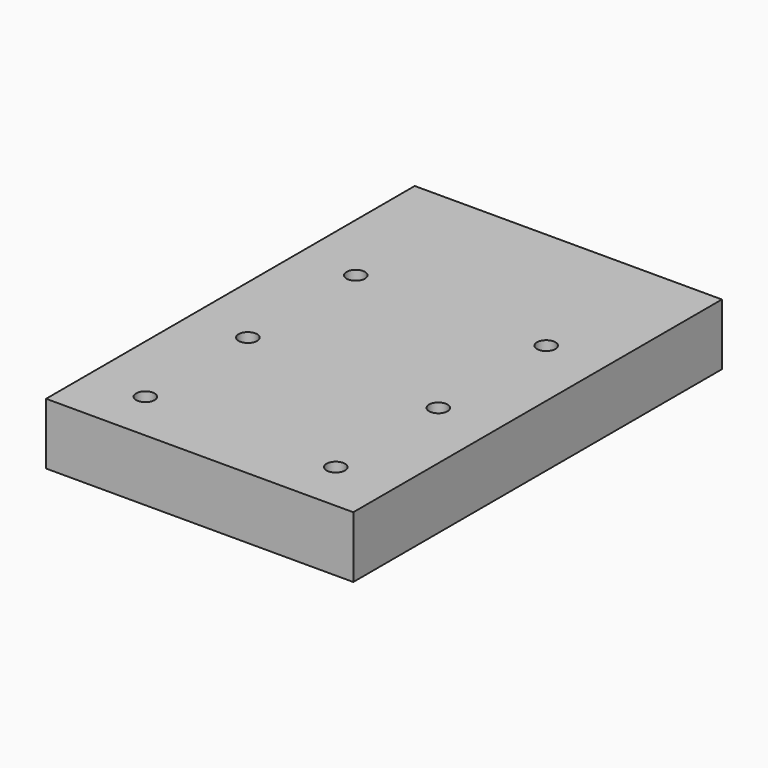
from build123d import *

# Parameters (mm, degrees)
F0_W     = 100
F0_H     = 150
F0_R     = 3
F1_DEPTH = 20


with BuildPart() as f1:
    # F0 (on Top) → F1 (new body)
    with BuildSketch(Plane.XY):
        Rectangle(F0_W, F0_H)
        with Locations((-31, -58.369067)):
            Circle(F0_R, mode=Mode.SUBTRACT)
        with Locations((-31, -16.64242)):
            Circle(F0_R, mode=Mode.SUBTRACT)
        with Locations((31, -58.369067)):
            Circle(F0_R, mode=Mode.SUBTRACT)
        with Locations((31, -16.64242)):
            Circle(F0_R, mode=Mode.SUBTRACT)
        with Locations((-31, 27.254978)):
            Circle(F0_R, mode=Mode.SUBTRACT)
        with Locations((31, 27.254978)):
            Circle(F0_R, mode=Mode.SUBTRACT)
    extrude(amount=F1_DEPTH)


solid = f1.part
